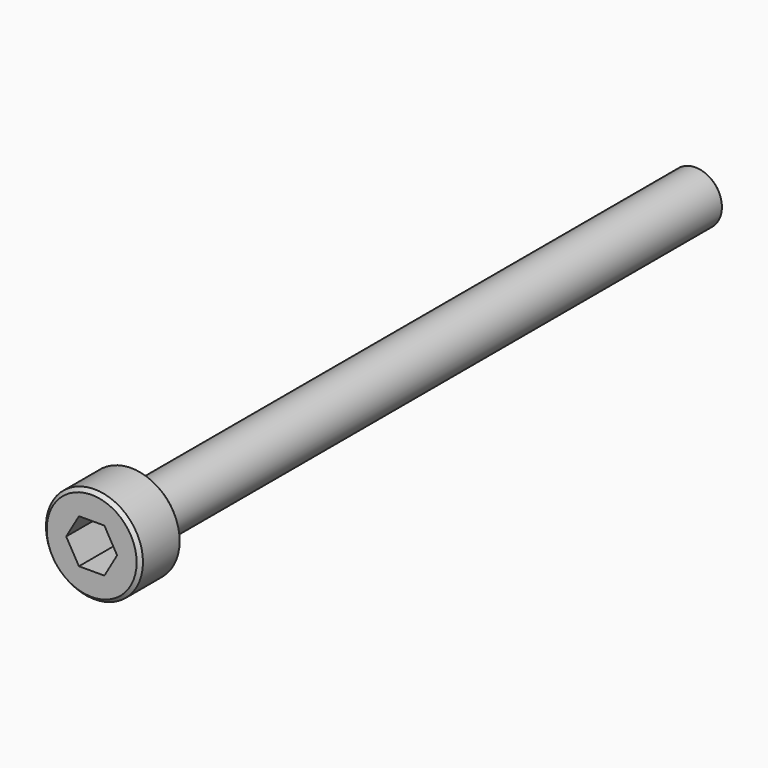
from build123d import *

# Parameters (mm, degrees)
SKETCH009_R             = 2.75
PAD005_DEPTH            = 3
SKETCH010_R             = 1.5
PAD004_DEPTH            = 40
POCKET004_DEPTH         = 4
CHAMFER002_SIZE         = 0.2
BODY003_PLACEMENT_ANGLE = 90


with BuildPart() as part:
    # Sketch009 → Pad005 (new body)
    with BuildSketch(Plane.XY):
        Circle(SKETCH009_R)
    extrude(amount=PAD005_DEPTH)

    # Sketch010 (on Face2 of Pad005) → Pad004 (join)
    with BuildSketch(Plane(origin=(0, 0, 0), x_dir=(1, 0, 0), z_dir=(0, 0, -1))):
        Circle(SKETCH010_R)
    extrude(amount=PAD004_DEPTH)

    # Sketch011 (on DatumPlane) → Pocket004 (cut)
    with BuildSketch(Plane.XY.offset(3)):
        Polygon((0.7216878365, -1.25), (1.443375673, 0), (0.7216878365, 1.25), (-0.7216878365, 1.25), (-1.443375673, 0), (-0.7216878365, -1.25), align=None)
    extrude(amount=-POCKET004_DEPTH, mode=Mode.SUBTRACT)

    # Chamfer002
    chamfer002_edges = [part.edges().sort_by_distance(p)[0] for p in [
        (-1.5, 0, -40),
        (-2.75, 0, 0),
        (-2.75, 0, 3),
    ]]
    chamfer(chamfer002_edges, length=CHAMFER002_SIZE)


with BuildPart() as part_1:
    # Body003 placement: moved
    add(part.part.moved(Location((-35.8, 0, 78.7))).rotate(Axis((-35.8, 0, 78.7), (1, 0, 0)), BODY003_PLACEMENT_ANGLE))


solid = part_1.part
